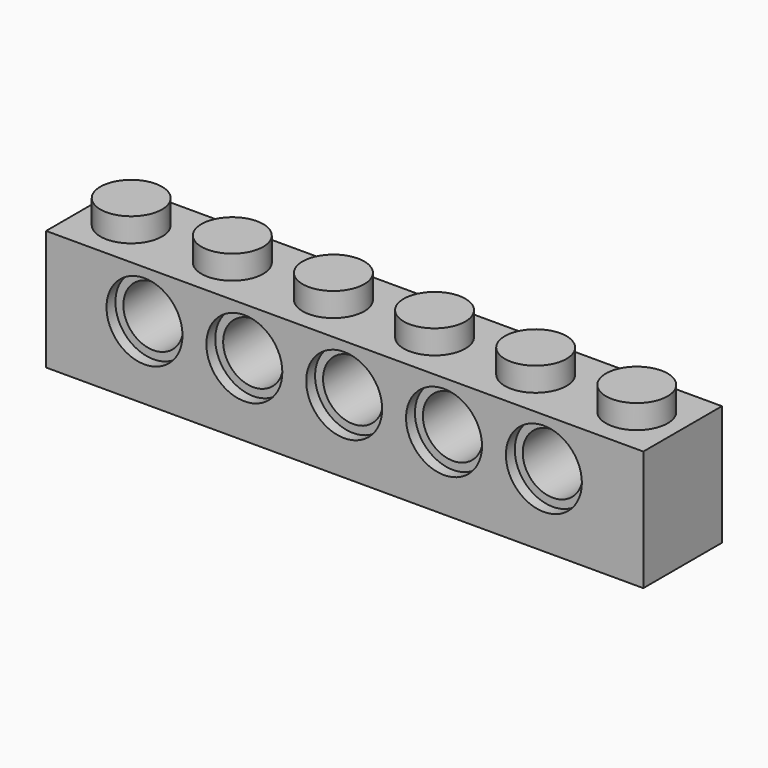
from build123d import *

# Parameters (mm, degrees)
F0_W     = 47.70783
F0_H     = 9.607826
F1_DEPTH = 7.8486
F2_R     = 3.0353
F3_DEPTH = 0.889
F4_R     = 3.0353
F5_DEPTH = 0.889
F6_R     = 2.4003
F7_DEPTH = 7.8496
F8_R     = 2.4638
F9_DEPTH = 1.905


with BuildPart() as f1:
    # F0 (on Front) → F1 (new body)
    with BuildSketch(Plane.XZ):
        with Locations((-6.626086, 10.933043)):
            Rectangle(F0_W, F0_H)
    extrude(amount=F1_DEPTH)

    # F2 (on face) → F3 (cut)
    with BuildSketch(Plane.XZ.offset(7.8486)):
        with Locations((-22.618701, 11.939656)):
            Circle(F2_R)
        with Locations((-14.643101, 11.939656)):
            Circle(F2_R)
        with Locations((-6.667501, 11.939656)):
            Circle(F2_R)
        with Locations((1.308099, 11.939656)):
            Circle(F2_R)
        with Locations((9.283699, 11.939656)):
            Circle(F2_R)
    extrude(amount=-F3_DEPTH, mode=Mode.SUBTRACT)

    # F4 (on face) → F5 (cut)
    with BuildSketch(Plane(origin=(0, 0, 0), x_dir=(-1, 0, 0), z_dir=(0, 1, 0))):
        with Locations((-9.239529, 11.939656)):
            Circle(F4_R)
        with Locations((-1.263929, 11.939656)):
            Circle(F4_R)
        with Locations((6.711671, 11.939656)):
            Circle(F4_R)
        with Locations((14.687271, 11.939656)):
            Circle(F4_R)
        with Locations((22.662871, 11.939656)):
            Circle(F4_R)
    extrude(amount=-F5_DEPTH, mode=Mode.SUBTRACT)

    # F6 (on face) → F7 (cut, through all)
    with BuildSketch(Plane.XZ.offset(7.8486)):
        with Locations((-22.618701, 11.939656)):
            Circle(F6_R)
        with Locations((-14.643101, 11.939656)):
            Circle(F6_R)
        with Locations((-6.667501, 11.939656)):
            Circle(F6_R)
        with Locations((1.308099, 11.939656)):
            Circle(F6_R)
        with Locations((9.283699, 11.939656)):
            Circle(F6_R)
    extrude(amount=-F7_DEPTH, mode=Mode.SUBTRACT)

    # F8 (on face) → F9 (join)
    with BuildSketch(Plane.XY.offset(15.736956)):
        with Locations((-26.819086, -3.9243)):
            Circle(F8_R)
        with Locations((-18.741886, -3.9243)):
            Circle(F8_R)
        with Locations((-10.664686, -3.9243)):
            Circle(F8_R)
        with Locations((-2.587486, -3.9243)):
            Circle(F8_R)
        with Locations((5.489714, -3.9243)):
            Circle(F8_R)
        with Locations((13.566914, -3.9243)):
            Circle(F8_R)
    extrude(amount=F9_DEPTH)


solid = f1.part
